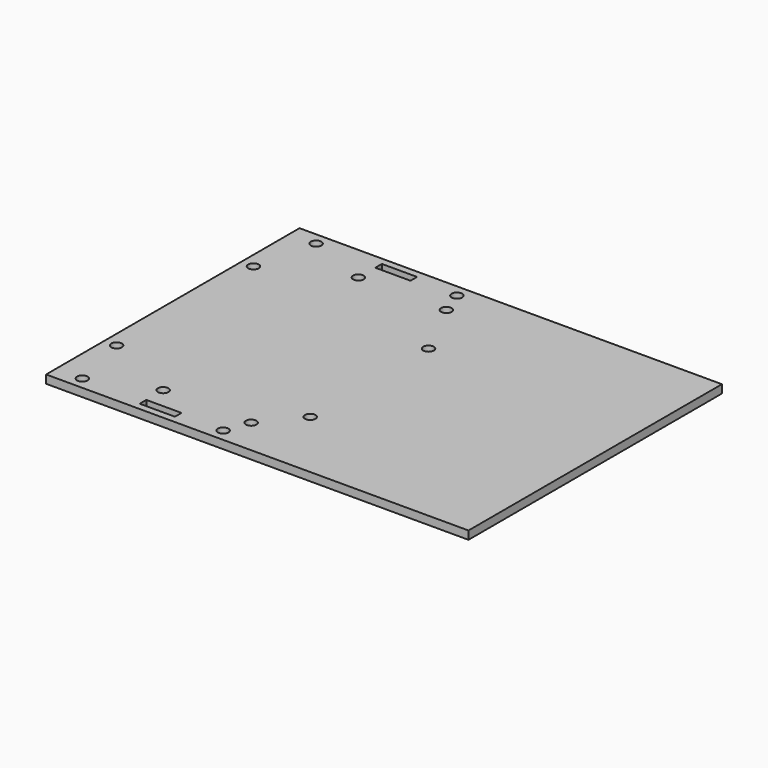
from build123d import *

# Parameters (mm, degrees)
F0_W     = 152.4
F0_H     = 114.3
F0_R     = 1.905
F0_W_2   = 12.7
F0_H_2   = 2.9718
F1_DEPTH = 2.9718


with BuildPart() as f1:
    # F0 (on Top) → F1 (new body)
    with BuildSketch(Plane.XY):
        with Locations((12.7, 0)):
            Rectangle(F0_W, F0_H)
        with Locations((-53.975, -52.705)):
            Circle(F0_R, mode=Mode.SUBTRACT)
        with Locations((-31.75, -44.0182)):
            Circle(F0_R, mode=Mode.SUBTRACT)
        with Locations((-59.055, -30.8864)):
            Circle(F0_R, mode=Mode.SUBTRACT)
        with Locations((-25.4, -53.1241)):
            Rectangle(F0_W_2, F0_H_2, mode=Mode.SUBTRACT)
        with Locations((-3.175, -52.705)):
            Circle(F0_R, mode=Mode.SUBTRACT)
        with Locations((0, -44.0182)):
            Circle(F0_R, mode=Mode.SUBTRACT)
        with Locations((10.795, -30.8864)):
            Circle(F0_R, mode=Mode.SUBTRACT)
        with Locations((10.795, 22.4536)):
            Circle(F0_R, mode=Mode.SUBTRACT)
        with Locations((-59.055, 30.8356)):
            Circle(F0_R, mode=Mode.SUBTRACT)
        with Locations((-53.975, 52.705)):
            Circle(F0_R, mode=Mode.SUBTRACT)
        with Locations((-31.75, 44.0182)):
            Circle(F0_R, mode=Mode.SUBTRACT)
        with Locations((-25.4, 53.1241)):
            Rectangle(F0_W_2, F0_H_2, mode=Mode.SUBTRACT)
        with Locations((0, 44.0182)):
            Circle(F0_R, mode=Mode.SUBTRACT)
        with Locations((-3.175, 52.705)):
            Circle(F0_R, mode=Mode.SUBTRACT)
    extrude(amount=F1_DEPTH)


solid = f1.part
